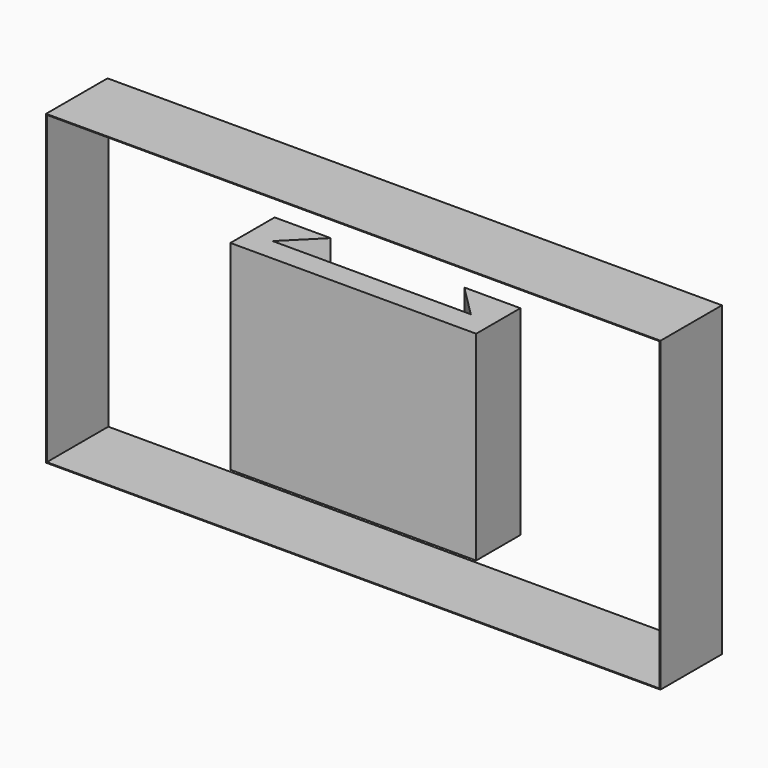
from build123d import *

# Parameters (mm, degrees)
F1_DEPTH = 26
F2_W     = 80
F2_H     = 40
F2_W_2   = 79.8
F2_H_2   = 39.8
F3_DEPTH = 10


with BuildPart() as f1:
    # F0 (on Top) → F1 (new body)
    with BuildSketch(Plane.XY):
        Polygon((-16, 7.2), (-16, 0), (16, 0), (16, 7.2), (8.7, 7.2), (12.9, 3), (-12.9, 3), (-8.7, 7.2), align=None)
    extrude(amount=F1_DEPTH)


with BuildPart() as f3:
    # F2 (on face) → F3 (new body)
    with BuildSketch(Plane.XZ):
        with Locations((0, 13)):
            Rectangle(F2_W, F2_H)
        with Locations((0, 13)):
            Rectangle(F2_W_2, F2_H_2, mode=Mode.SUBTRACT)
    extrude(amount=-F3_DEPTH)


solid = Compound([f1.part, f3.part])
